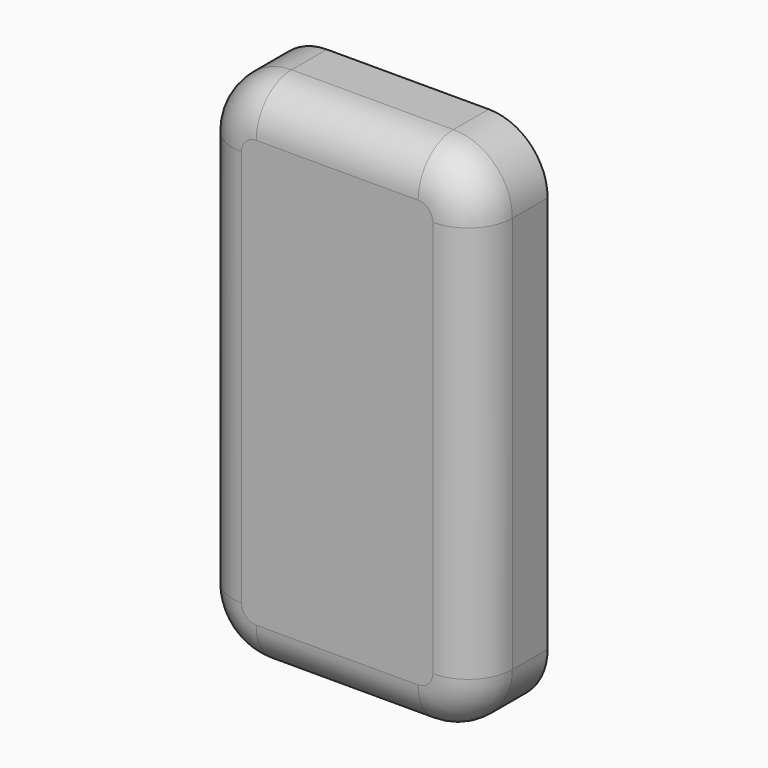
from build123d import *

# Parameters (mm, degrees)
F0_W     = 19
F0_H     = 35
F1_DEPTH = 6
F2_R     = 4
F3_R     = 3


with BuildPart() as f1:
    # F0 (on Front) → F1 (new body)
    with BuildSketch(Plane.XZ):
        with Locations((-4.541362, 17.316902)):
            Rectangle(F0_W, F0_H)
    extrude(amount=F1_DEPTH)

    # F2
    f2_edges = [f1.edges().sort_by_distance(p)[0] for p in [
        (4.958638, -3, 34.816902),
        (4.958638, -3, -0.183098),
        (-14.041362, -3, 34.816902),
        (-14.041362, -3, -0.183098),
    ]]
    fillet(f2_edges, radius=F2_R)

    # F3
    f3_edges = [f1.edges().sort_by_distance(p)[0] for p in [
        (-14.041362, -6, 17.316902),
    ]]
    fillet(f3_edges, radius=F3_R)


solid = f1.part
